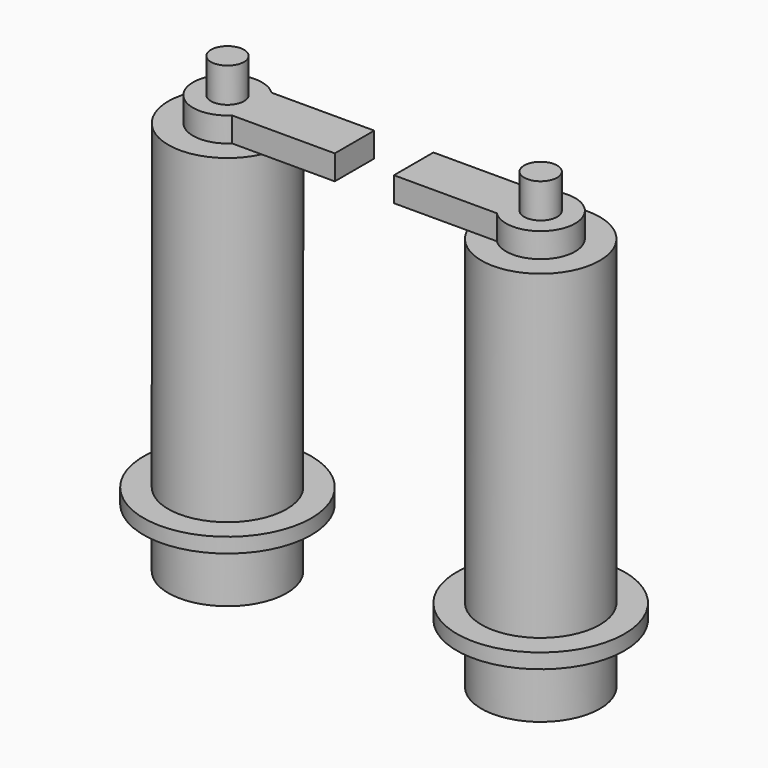
from build123d import *

# Parameters (mm, degrees)
CYLINDER116_R     = 7
CYLINDER116_DEPTH = 5
CYLINDER117_R     = 3.35
CYLINDER117_DEPTH = 9
CYLINDER132_R     = 17
CYLINDER132_DEPTH = 3
CYLINDER131_R     = 12
CYLINDER131_DEPTH = 80
CYLINDER133_R     = 7
CYLINDER133_DEPTH = 5
BOX024_W          = 25.75
BOX024_H          = 10
BOX024_DEPTH      = 5
CYLINDER134_R     = 3.35
CYLINDER134_DEPTH = 9
CYLINDER100_R     = 17
CYLINDER100_DEPTH = 3
CYLINDER095_R     = 12
CYLINDER095_DEPTH = 80
BOX020_W          = 25.75
BOX020_H          = 10
BOX020_DEPTH      = 5


with BuildPart() as bowtiebarround1:
    # Cylinder116 → Cylinder116 (new body)
    with BuildSketch(Plane(origin=(73.66, 148, 60), x_dir=(1, 0, 0), z_dir=(0, 0, 1))):
        Circle(CYLINDER116_R)
    extrude(amount=CYLINDER116_DEPTH)


with BuildPart() as bowtiebarmount003:
    # Cylinder117 → Cylinder117 (new body)
    with BuildSketch(Plane(origin=(73.66, 148, 63), x_dir=(1, 0, 0), z_dir=(0, 0, 1))):
        Circle(CYLINDER117_R)
    extrude(amount=CYLINDER117_DEPTH)


with BuildPart() as ft1flange001:
    # Cylinder132 → Cylinder132 (new body)
    with BuildSketch(Plane(origin=(73.66, 148, -8), x_dir=(1, 0, 0), z_dir=(0, 0, 1))):
        Circle(CYLINDER132_R)
    extrude(amount=CYLINDER132_DEPTH)


with BuildPart() as ft002:
    # Cylinder131 → Cylinder131 (new body)
    with BuildSketch(Plane(origin=(73.66, 148, -20), x_dir=(1, 0, 0), z_dir=(0, 0, 1))):
        Circle(CYLINDER131_R)
    extrude(amount=CYLINDER131_DEPTH)

    # Fusion052: union FT1flange001
    add(ft1flange001.part)


with BuildPart() as ft002_1:
    # Fusion052 placement: moved
    add(ft002.part.moved(Location((63.5, 0, 0))))


with BuildPart() as bowtiebarround2:
    # Cylinder133 → Cylinder133 (new body)
    with BuildSketch(Plane(origin=(137.16, 148, 60), x_dir=(1, 0, 0), z_dir=(0, 0, 1))):
        Circle(CYLINDER133_R)
    extrude(amount=CYLINDER133_DEPTH)


with BuildPart() as bowtiebar002:
    # Box024 → Box024 (new body)
    with BuildSketch(Plane(origin=(111.41, 143, 60), x_dir=(1, 0, 0), z_dir=(0, 0, 1))):
        with Locations((12.875, 5)):
            Rectangle(BOX024_W, BOX024_H)
    extrude(amount=BOX024_DEPTH)


with BuildPart() as bowtiebarmount1:
    # Cylinder134 → Cylinder134 (new body)
    with BuildSketch(Plane(origin=(137.16, 148, 63), x_dir=(1, 0, 0), z_dir=(0, 0, 1))):
        Circle(CYLINDER134_R)
    extrude(amount=CYLINDER134_DEPTH)


with BuildPart() as ft1flange:
    # Cylinder100 → Cylinder100 (new body)
    with BuildSketch(Plane(origin=(73.66, 148, -8), x_dir=(1, 0, 0), z_dir=(0, 0, 1))):
        Circle(CYLINDER100_R)
    extrude(amount=CYLINDER100_DEPTH)


with BuildPart() as ft1:
    # Cylinder095 → Cylinder095 (new body)
    with BuildSketch(Plane(origin=(73.66, 148, -20), x_dir=(1, 0, 0), z_dir=(0, 0, 1))):
        Circle(CYLINDER095_R)
    extrude(amount=CYLINDER095_DEPTH)

    # Fusion043: union FT1flange
    add(ft1flange.part)


with BuildPart() as fusion054:
    # Box020 → Box020 (new body)
    with BuildSketch(Plane(origin=(73.66, 143, 60), x_dir=(1, 0, 0), z_dir=(0, 0, 1))):
        with Locations((12.875, 5)):
            Rectangle(BOX020_W, BOX020_H)
    extrude(amount=BOX020_DEPTH)

    # Fusion054: union BowTieBarRound1, BowTieBarMount003, FT002, BowTieBarRound2, BowTieBar002, BowTieBarMount1, FT1
    add(bowtiebarround1.part)
    add(bowtiebarmount003.part)
    add(ft002_1.part)
    add(bowtiebarround2.part)
    add(bowtiebar002.part)
    add(bowtiebarmount1.part)
    add(ft1.part)


solid = fusion054.part
